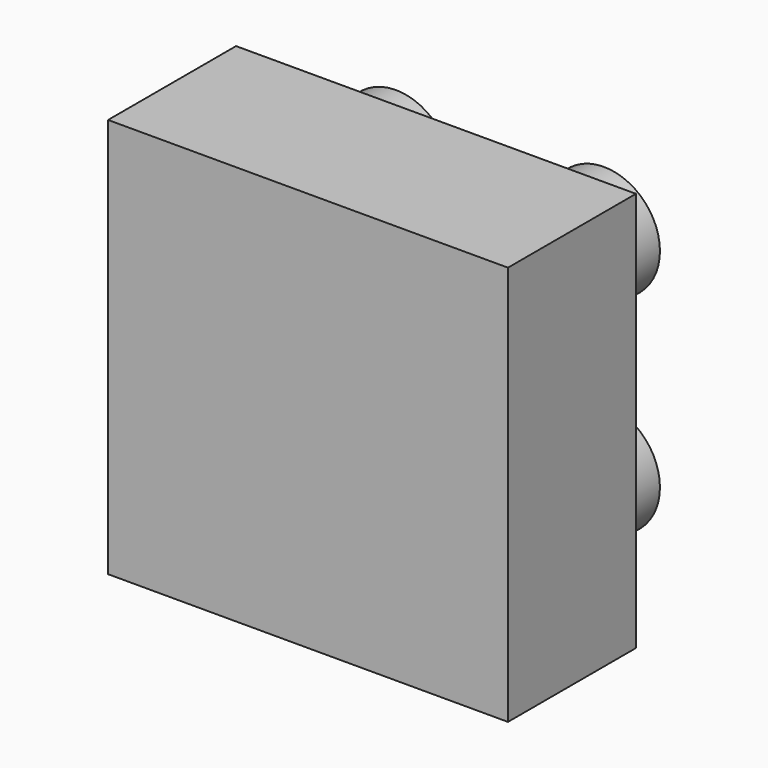
from build123d import *

# Parameters (mm, degrees)
F0_W      = 25
F0_H      = 25
F1_DEPTH  = 10
F2_R      = 3.5
F3_DEPTH  = 5
F4_R      = 4
F1_FACE_W = 25
F1_FACE_H = 25
F5_DEPTH  = 5.5


with BuildPart() as f1:
    # F0 (on Front) → F1 (new body)
    with BuildSketch(Plane.XZ):
        with Locations((-12.5, 12.5)):
            Rectangle(F0_W, F0_H)
    extrude(amount=F1_DEPTH)

    # F2 (on Front) → F3 (join)
    with BuildSketch(Plane.XZ):
        with Locations((-19, 19)):
            Circle(F2_R)
        with Locations((-19, 6)):
            Circle(F2_R)
        with Locations((-6, 6)):
            Circle(F2_R)
        with Locations((-6, 19)):
            Circle(F2_R)
    extrude(amount=-F3_DEPTH)

    # F4 (on Front) + F1_face (on face) → F5 (cut)
    with BuildSketch(Plane.XZ):
        with Locations((-19.5, 19.5)):
            Circle(F4_R)
        with Locations((-19.5, 5.5)):
            Circle(F4_R)
        with Locations((-5.5, 5.5)):
            Circle(F4_R)
        with Locations((-5.5, 19.5)):
            Circle(F4_R)
    with BuildSketch(Plane(origin=(-12.5, -10, 12.5), x_dir=(1, 0, 0), z_dir=(0, -1, 0))):
        Rectangle(F1_FACE_W, F1_FACE_H)
    extrude(amount=F5_DEPTH, mode=Mode.SUBTRACT)


solid = f1.part
